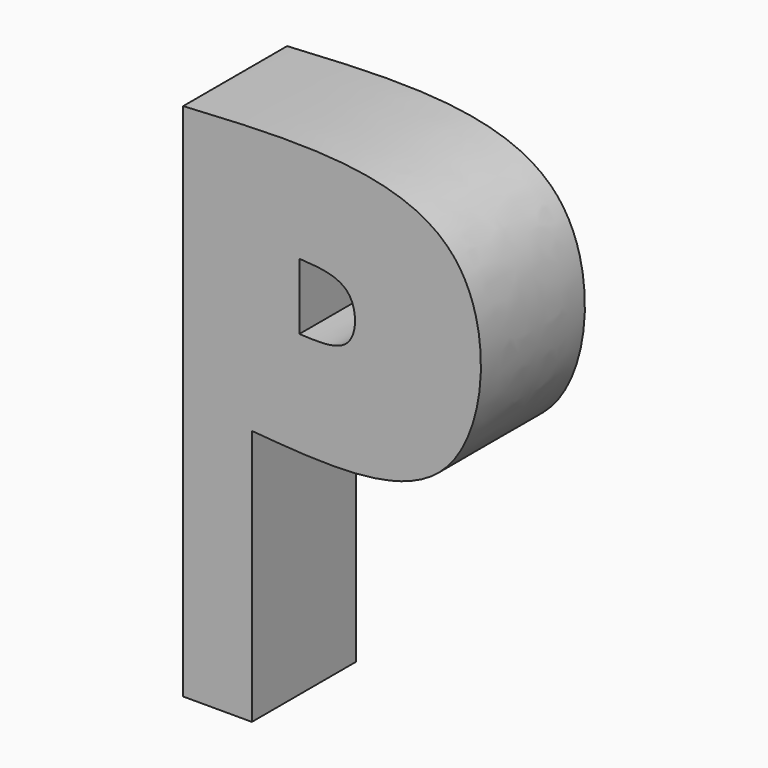
from build123d import *

# Parameters (mm, degrees)
F1_DEPTH = 25.4


with BuildPart() as f1:
    # F0 (on Front) → F1 (new body)
    with BuildSketch(Plane.XZ):
        with BuildLine():
            add(Edge.make_bspline(
                [(-39.445489645, 47.6072368383), (-17.4395065109, 48.880317418), (22.5780711292, 51.1953969411), (18.8759362418, -7.5980401225), (-10.8711234982, -5.1586310517), (-26.0172374547, -3.9165732451)],
                knots=[0, 0, 0, 0, 0.3748782085, 0.6817108658, 1, 1, 1, 1], degree=3))
            Line((-39.445489645, 47.6072368383), (-39.445489645, -53.9927631617))
            Line((-39.445489645, -53.9927631617), (-26.0172374547, -53.9927631617))
            Line((-26.0172374547, -53.9927631617), (-26.0172374547, -3.9165732451))
        make_face()
        with BuildLine():
            Line((-16.7283713818, 15.7831478864), (-16.7283713818, 28.7361815572))
            add(Edge.make_bspline(
                [(-16.7283713818, 28.7361815572), (-12.8535929618, 28.5049121028), (-5.462259616, 28.0637540688), (-5.4067090279, 15.1960156796), (-12.850764167, 15.5820583282), (-16.7283713818, 15.7831478864)],
                knots=[0, 0, 0, 0, 0.3455090454, 0.6590757591, 1, 1, 1, 1], degree=3))
        make_face(mode=Mode.SUBTRACT)
    extrude(amount=F1_DEPTH)


solid = f1.part
